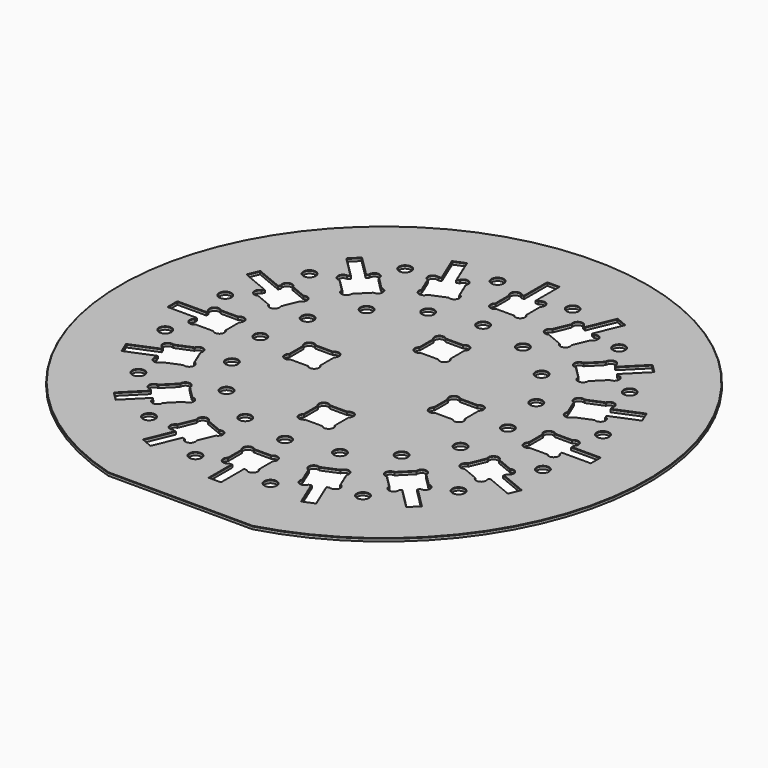
from build123d import *

# Parameters (mm, degrees)
F0_R     = 2
F1_DEPTH = 1
F2_SIZE  = 0.15


with BuildPart() as f1:
    # F0 (on Top) → F1 (new body)
    with BuildSketch(Plane.XY):
        with BuildLine():
            Line((-25.2192982456, -87.7282941676), (24.7805456483, -87.8532364739))
            ThreePointArc((24.7805456483, -87.8532364739), (0.2280977978, 91.2809650089), (-25.2192982456, -87.7282941676))
        make_face()
        with Locations((-36.9934754125, -55.3646484834)):
            Circle(F0_R, mode=Mode.SUBTRACT)
        with BuildLine():
            ThreePointArc((-42.452001351, -35.0273801486), (-40.875761089, -33.2511398866), (-39.2995208271, -35.0273801486))
            Line((-39.2995208271, -35.0273801486), (-35.0273801486, -39.2995208271))
            ThreePointArc((-35.0273801486, -39.2995208271), (-33.2511398866, -40.875761089), (-35.0273801486, -42.452001351))
            Line((-35.0273801486, -42.452001351), (-39.2995208271, -46.7241420295))
            ThreePointArc((-39.2995208271, -46.7241420295), (-40.875761089, -48.5003822915), (-42.452001351, -46.7241420295))
            Line((-42.452001351, -46.7241420295), (-43.1738581279, -46.0022852526))
            Line((-43.1738581279, -46.0022852526), (-50.2449259398, -53.0733530645))
            Line((-50.2449259398, -53.0733530645), (-53.0733530645, -50.2449259398))
            Line((-53.0733530645, -50.2449259398), (-46.0022852526, -43.1738581279))
            Line((-46.0022852526, -43.1738581279), (-46.7241420295, -42.452001351))
            ThreePointArc((-46.7241420295, -42.452001351), (-48.5003822915, -40.875761089), (-46.7241420295, -39.2995208271))
            Line((-46.7241420295, -39.2995208271), (-42.452001351, -35.0273801486))
        make_face(mode=Mode.SUBTRACT)
        with Locations((-12.9903810568, -65.3070557044)):
            Circle(F0_R, mode=Mode.SUBTRACT)
        with BuildLine():
            ThreePointArc((-25.8161371003, -48.6067571845), (-25.0396187041, -46.362524128), (-22.9036248676, -47.4003551172))
            Line((-22.9036248676, -47.4003551172), (-17.3218040764, -49.7124209916))
            ThreePointArc((-17.3218040764, -49.7124209916), (-15.0775710198, -50.4889393878), (-16.115402009, -52.6249332244))
            Line((-16.115402009, -52.6249332244), (-18.4274678834, -58.2067540156))
            ThreePointArc((-18.4274678834, -58.2067540156), (-19.2039862797, -60.4509870722), (-21.3399801162, -59.413156083))
            Line((-21.3399801162, -59.413156083), (-22.2831314468, -59.0224900105))
            Line((-22.2831314468, -59.0224900105), (-26.1099657704, -68.2612853356))
            Line((-26.1099657704, -68.2612853356), (-29.8054839005, -66.7305516061))
            Line((-29.8054839005, -66.7305516061), (-25.9786495768, -57.491756281))
            Line((-25.9786495768, -57.491756281), (-26.9218009074, -57.1010902085))
            ThreePointArc((-26.9218009074, -57.1010902085), (-29.166033964, -56.3245718123), (-28.1282029748, -54.1885779758))
            Line((-28.1282029748, -54.1885779758), (-25.8161371003, -48.6067571845))
        make_face(mode=Mode.SUBTRACT)
        with Locations((-55.3646484834, -36.9934754125)):
            Circle(F0_R, mode=Mode.SUBTRACT)
        with BuildLine():
            ThreePointArc((-52.6249332244, -16.115402009), (-50.4889393878, -15.0775710198), (-49.7124209916, -17.3218040764))
            Line((-49.7124209916, -17.3218040764), (-47.4003551172, -22.9036248676))
            ThreePointArc((-47.4003551172, -22.9036248676), (-46.362524128, -25.0396187041), (-48.6067571845, -25.8161371003))
            Line((-48.6067571845, -25.8161371003), (-54.1885779758, -28.1282029748))
            ThreePointArc((-54.1885779758, -28.1282029748), (-56.3245718123, -29.166033964), (-57.1010902085, -26.9218009074))
            Line((-57.1010902085, -26.9218009074), (-57.491756281, -25.9786495768))
            Line((-57.491756281, -25.9786495768), (-66.7305516061, -29.8054839005))
            Line((-66.7305516061, -29.8054839005), (-68.2612853356, -26.1099657704))
            Line((-68.2612853356, -26.1099657704), (-59.0224900105, -22.2831314468))
            Line((-59.0224900105, -22.2831314468), (-59.413156083, -21.3399801162))
            ThreePointArc((-59.413156083, -21.3399801162), (-60.4509870722, -19.2039862797), (-58.2067540156, -18.4274678834))
            Line((-58.2067540156, -18.4274678834), (-52.6249332244, -16.115402009))
        make_face(mode=Mode.SUBTRACT)
        with Locations((-65.3070557044, -12.9903810568)):
            Circle(F0_R, mode=Mode.SUBTRACT)
        with BuildLine():
            ThreePointArc((-54.7861960605, 5.25), (-52.4156343482, 5.3914213562), (-52.5570557044, 3.0208596439))
            Line((-52.5570557044, 3.0208596439), (-52.5570557044, -3.0208596439))
            ThreePointArc((-52.5570557044, -3.0208596439), (-52.4156343482, -5.3914213562), (-54.7861960605, -5.25))
            Line((-54.7861960605, -5.25), (-60.8279153484, -5.25))
            ThreePointArc((-60.8279153484, -5.25), (-63.1984770607, -5.3914213562), (-63.0570557044, -3.0208596439))
            Line((-63.0570557044, -3.0208596439), (-63.0570557044, -2))
            Line((-63.0570557044, -2), (-73.0570557044, -2))
            Line((-73.0570557044, -2), (-73.0570557044, 2))
            Line((-73.0570557044, 2), (-63.0570557044, 2))
            Line((-63.0570557044, 2), (-63.0570557044, 3.0208596439))
            ThreePointArc((-63.0570557044, 3.0208596439), (-63.1984770607, 5.3914213562), (-60.8279153484, 5.25))
            Line((-60.8279153484, 5.25), (-54.7861960605, 5.25))
        make_face(mode=Mode.SUBTRACT)
        with Locations((-30.2691593712, -30.2691593712)):
            Circle(F0_R, mode=Mode.SUBTRACT)
        with Locations((-16.3815510064, -39.5485626124)):
            Circle(F0_R, mode=Mode.SUBTRACT)
        with Locations((-39.5485626124, -16.3815510064)):
            Circle(F0_R, mode=Mode.SUBTRACT)
        with Locations((-42.8070557044, 0)):
            Circle(F0_R, mode=Mode.SUBTRACT)
        with BuildLine():
            ThreePointArc((-19.75, -3.0208596439), (-19.6085786438, -5.3914213562), (-21.9791403561, -5.25))
            Line((-21.9791403561, -5.25), (-28.0208596439, -5.25))
            ThreePointArc((-28.0208596439, -5.25), (-30.3914213562, -5.3914213562), (-30.25, -3.0208596439))
            Line((-30.25, -3.0208596439), (-30.25, -2))
            Line((-30.25, -2), (-30.25, 2))
            Line((-30.25, 2), (-30.25, 3.0208596439))
            ThreePointArc((-30.25, 3.0208596439), (-30.3914213562, 5.3914213562), (-28.0208596439, 5.25))
            Line((-28.0208596439, 5.25), (-21.9791403561, 5.25))
            ThreePointArc((-21.9791403561, 5.25), (-19.6085786438, 5.3914213562), (-19.75, 3.0208596439))
            Line((-19.75, 3.0208596439), (-19.75, -3.0208596439))
        make_face(mode=Mode.SUBTRACT)
        with BuildLine():
            ThreePointArc((-5.25, -54.7861960605), (-5.3914213562, -52.4156343482), (-3.0208596439, -52.5570557044))
            Line((-3.0208596439, -52.5570557044), (3.0208596439, -52.5570557044))
            ThreePointArc((3.0208596439, -52.5570557044), (5.3914213562, -52.4156343482), (5.25, -54.7861960605))
            Line((5.25, -54.7861960605), (5.25, -60.8279153484))
            ThreePointArc((5.25, -60.8279153484), (5.3914213562, -63.1984770607), (3.0208596439, -63.0570557044))
            Line((3.0208596439, -63.0570557044), (2, -63.0570557044))
            Line((2, -63.0570557044), (2, -73.0570557044))
            Line((2, -73.0570557044), (-2, -73.0570557044))
            Line((-2, -73.0570557044), (-2, -63.0570557044))
            Line((-2, -63.0570557044), (-3.0208596439, -63.0570557044))
            ThreePointArc((-3.0208596439, -63.0570557044), (-5.3914213562, -63.1984770607), (-5.25, -60.8279153484))
            Line((-5.25, -60.8279153484), (-5.25, -54.7861960605))
        make_face(mode=Mode.SUBTRACT)
        with Locations((12.9903810568, -65.3070557044)):
            Circle(F0_R, mode=Mode.SUBTRACT)
        with BuildLine():
            ThreePointArc((16.115402009, -52.6249332244), (15.0775710198, -50.4889393878), (17.3218040764, -49.7124209916))
            Line((17.3218040764, -49.7124209916), (22.9036248676, -47.4003551172))
            ThreePointArc((22.9036248676, -47.4003551172), (25.0396187041, -46.362524128), (25.8161371003, -48.6067571845))
            Line((25.8161371003, -48.6067571845), (28.1282029748, -54.1885779758))
            ThreePointArc((28.1282029748, -54.1885779758), (29.166033964, -56.3245718123), (26.9218009074, -57.1010902085))
            Line((26.9218009074, -57.1010902085), (25.9786495768, -57.491756281))
            Line((25.9786495768, -57.491756281), (29.8054839005, -66.7305516061))
            Line((29.8054839005, -66.7305516061), (26.1099657704, -68.2612853356))
            Line((26.1099657704, -68.2612853356), (22.2831314468, -59.0224900105))
            Line((22.2831314468, -59.0224900105), (21.3399801162, -59.413156083))
            ThreePointArc((21.3399801162, -59.413156083), (19.2039862797, -60.4509870722), (18.4274678834, -58.2067540156))
            Line((18.4274678834, -58.2067540156), (16.115402009, -52.6249332244))
        make_face(mode=Mode.SUBTRACT)
        with Locations((36.9934754125, -55.3646484834)):
            Circle(F0_R, mode=Mode.SUBTRACT)
        with BuildLine():
            ThreePointArc((35.0273801486, -42.452001351), (33.2511398866, -40.875761089), (35.0273801486, -39.2995208271))
            Line((35.0273801486, -39.2995208271), (39.2995208271, -35.0273801486))
            ThreePointArc((39.2995208271, -35.0273801486), (40.875761089, -33.2511398866), (42.452001351, -35.0273801486))
            Line((42.452001351, -35.0273801486), (46.7241420295, -39.2995208271))
            ThreePointArc((46.7241420295, -39.2995208271), (48.5003822915, -40.875761089), (46.7241420295, -42.452001351))
            Line((46.7241420295, -42.452001351), (46.0022852526, -43.1738581279))
            Line((46.0022852526, -43.1738581279), (53.0733530645, -50.2449259398))
            Line((53.0733530645, -50.2449259398), (50.2449259398, -53.0733530645))
            Line((50.2449259398, -53.0733530645), (43.1738581279, -46.0022852526))
            Line((43.1738581279, -46.0022852526), (42.452001351, -46.7241420295))
            ThreePointArc((42.452001351, -46.7241420295), (40.875761089, -48.5003822915), (39.2995208271, -46.7241420295))
            Line((39.2995208271, -46.7241420295), (35.0273801486, -42.452001351))
        make_face(mode=Mode.SUBTRACT)
        with Locations((0, -42.8070557044)):
            Circle(F0_R, mode=Mode.SUBTRACT)
        with Locations((16.3815510064, -39.5485626124)):
            Circle(F0_R, mode=Mode.SUBTRACT)
        with BuildLine():
            ThreePointArc((3.0208596439, -19.75), (5.3914213562, -19.6085786438), (5.25, -21.9791403561))
            Line((5.25, -21.9791403561), (5.25, -28.0208596439))
            ThreePointArc((5.25, -28.0208596439), (5.3914213562, -30.3914213562), (3.0208596439, -30.25))
            Line((3.0208596439, -30.25), (2, -30.25))
            Line((2, -30.25), (-2, -30.25))
            Line((-2, -30.25), (-3.0208596439, -30.25))
            ThreePointArc((-3.0208596439, -30.25), (-5.3914213562, -30.3914213562), (-5.25, -28.0208596439))
            Line((-5.25, -28.0208596439), (-5.25, -21.9791403561))
            ThreePointArc((-5.25, -21.9791403561), (-5.3914213562, -19.6085786438), (-3.0208596439, -19.75))
            Line((-3.0208596439, -19.75), (3.0208596439, -19.75))
        make_face(mode=Mode.SUBTRACT)
        with Locations((30.2691593712, -30.2691593712)):
            Circle(F0_R, mode=Mode.SUBTRACT)
        with Locations((39.5485626124, -16.3815510064)):
            Circle(F0_R, mode=Mode.SUBTRACT)
        with BuildLine():
            ThreePointArc((19.75, 3.0208596439), (19.6085786438, 5.3914213562), (21.9791403561, 5.25))
            Line((21.9791403561, 5.25), (28.0208596439, 5.25))
            ThreePointArc((28.0208596439, 5.25), (30.3914213562, 5.3914213562), (30.25, 3.0208596439))
            Line((30.25, 3.0208596439), (30.25, 2))
            Line((30.25, 2), (30.25, -2))
            Line((30.25, -2), (30.25, -3.0208596439))
            ThreePointArc((30.25, -3.0208596439), (30.3914213562, -5.3914213562), (28.0208596439, -5.25))
            Line((28.0208596439, -5.25), (21.9791403561, -5.25))
            ThreePointArc((21.9791403561, -5.25), (19.6085786438, -5.3914213562), (19.75, -3.0208596439))
            Line((19.75, -3.0208596439), (19.75, 3.0208596439))
        make_face(mode=Mode.SUBTRACT)
        with Locations((42.8070557044, 0)):
            Circle(F0_R, mode=Mode.SUBTRACT)
        with Locations((55.3646484834, -36.9934754125)):
            Circle(F0_R, mode=Mode.SUBTRACT)
        with BuildLine():
            ThreePointArc((48.6067571845, -25.8161371003), (46.362524128, -25.0396187041), (47.4003551172, -22.9036248676))
            Line((47.4003551172, -22.9036248676), (49.7124209916, -17.3218040764))
            ThreePointArc((49.7124209916, -17.3218040764), (50.4889393878, -15.0775710198), (52.6249332244, -16.115402009))
            Line((52.6249332244, -16.115402009), (58.2067540156, -18.4274678834))
            ThreePointArc((58.2067540156, -18.4274678834), (60.4509870722, -19.2039862797), (59.413156083, -21.3399801162))
            Line((59.413156083, -21.3399801162), (59.0224900105, -22.2831314468))
            Line((59.0224900105, -22.2831314468), (68.2612853356, -26.1099657704))
            Line((68.2612853356, -26.1099657704), (66.7305516061, -29.8054839005))
            Line((66.7305516061, -29.8054839005), (57.491756281, -25.9786495768))
            Line((57.491756281, -25.9786495768), (57.1010902085, -26.9218009074))
            ThreePointArc((57.1010902085, -26.9218009074), (56.3245718123, -29.166033964), (54.1885779758, -28.1282029748))
            Line((54.1885779758, -28.1282029748), (48.6067571845, -25.8161371003))
        make_face(mode=Mode.SUBTRACT)
        with Locations((65.3070557044, -12.9903810568)):
            Circle(F0_R, mode=Mode.SUBTRACT)
        with BuildLine():
            ThreePointArc((54.7861960605, -5.25), (52.4156343482, -5.3914213562), (52.5570557044, -3.0208596439))
            Line((52.5570557044, -3.0208596439), (52.5570557044, 3.0208596439))
            ThreePointArc((52.5570557044, 3.0208596439), (52.4156343482, 5.3914213562), (54.7861960605, 5.25))
            Line((54.7861960605, 5.25), (60.8279153484, 5.25))
            ThreePointArc((60.8279153484, 5.25), (63.1984770607, 5.3914213562), (63.0570557044, 3.0208596439))
            Line((63.0570557044, 3.0208596439), (63.0570557044, 2))
            Line((63.0570557044, 2), (73.0570557044, 2))
            Line((73.0570557044, 2), (73.0570557044, -2))
            Line((73.0570557044, -2), (63.0570557044, -2))
            Line((63.0570557044, -2), (63.0570557044, -3.0208596439))
            ThreePointArc((63.0570557044, -3.0208596439), (63.1984770607, -5.3914213562), (60.8279153484, -5.25))
            Line((60.8279153484, -5.25), (54.7861960605, -5.25))
        make_face(mode=Mode.SUBTRACT)
        with Locations((-65.3070557044, 12.9903810568)):
            Circle(F0_R, mode=Mode.SUBTRACT)
        with BuildLine():
            ThreePointArc((-48.6067571845, 25.8161371003), (-46.362524128, 25.0396187041), (-47.4003551172, 22.9036248676))
            Line((-47.4003551172, 22.9036248676), (-49.7124209916, 17.3218040764))
            ThreePointArc((-49.7124209916, 17.3218040764), (-50.4889393878, 15.0775710198), (-52.6249332244, 16.115402009))
            Line((-52.6249332244, 16.115402009), (-58.2067540156, 18.4274678834))
            ThreePointArc((-58.2067540156, 18.4274678834), (-60.4509870722, 19.2039862797), (-59.413156083, 21.3399801162))
            Line((-59.413156083, 21.3399801162), (-59.0224900105, 22.2831314468))
            Line((-59.0224900105, 22.2831314468), (-68.2612853356, 26.1099657704))
            Line((-68.2612853356, 26.1099657704), (-66.7305516061, 29.8054839005))
            Line((-66.7305516061, 29.8054839005), (-57.491756281, 25.9786495768))
            Line((-57.491756281, 25.9786495768), (-57.1010902085, 26.9218009074))
            ThreePointArc((-57.1010902085, 26.9218009074), (-56.3245718123, 29.166033964), (-54.1885779758, 28.1282029748))
            Line((-54.1885779758, 28.1282029748), (-48.6067571845, 25.8161371003))
        make_face(mode=Mode.SUBTRACT)
        with Locations((-55.3646484834, 36.9934754125)):
            Circle(F0_R, mode=Mode.SUBTRACT)
        with Locations((-39.5485626124, 16.3815510064)):
            Circle(F0_R, mode=Mode.SUBTRACT)
        with Locations((-30.2691593712, 30.2691593712)):
            Circle(F0_R, mode=Mode.SUBTRACT)
        with BuildLine():
            ThreePointArc((-39.2995208271, 35.0273801486), (-40.875761089, 33.2511398866), (-42.452001351, 35.0273801486))
            Line((-42.452001351, 35.0273801486), (-46.7241420295, 39.2995208271))
            ThreePointArc((-46.7241420295, 39.2995208271), (-48.5003822915, 40.875761089), (-46.7241420295, 42.452001351))
            Line((-46.7241420295, 42.452001351), (-46.0022852526, 43.1738581279))
            Line((-46.0022852526, 43.1738581279), (-53.0733530645, 50.2449259398))
            Line((-53.0733530645, 50.2449259398), (-50.2449259398, 53.0733530645))
            Line((-50.2449259398, 53.0733530645), (-43.1738581279, 46.0022852526))
            Line((-43.1738581279, 46.0022852526), (-42.452001351, 46.7241420295))
            ThreePointArc((-42.452001351, 46.7241420295), (-40.875761089, 48.5003822915), (-39.2995208271, 46.7241420295))
            Line((-39.2995208271, 46.7241420295), (-35.0273801486, 42.452001351))
            ThreePointArc((-35.0273801486, 42.452001351), (-33.2511398866, 40.875761089), (-35.0273801486, 39.2995208271))
            Line((-35.0273801486, 39.2995208271), (-39.2995208271, 35.0273801486))
        make_face(mode=Mode.SUBTRACT)
        with Locations((-16.3815510064, 39.5485626124)):
            Circle(F0_R, mode=Mode.SUBTRACT)
        with Locations((-36.9934754125, 55.3646484834)):
            Circle(F0_R, mode=Mode.SUBTRACT)
        with BuildLine():
            ThreePointArc((-22.9036248676, 47.4003551172), (-25.0396187041, 46.362524128), (-25.8161371003, 48.6067571845))
            Line((-25.8161371003, 48.6067571845), (-28.1282029748, 54.1885779758))
            ThreePointArc((-28.1282029748, 54.1885779758), (-29.166033964, 56.3245718123), (-26.9218009074, 57.1010902085))
            Line((-26.9218009074, 57.1010902085), (-25.9786495768, 57.491756281))
            Line((-25.9786495768, 57.491756281), (-29.8054839005, 66.7305516061))
            Line((-29.8054839005, 66.7305516061), (-26.1099657704, 68.2612853356))
            Line((-26.1099657704, 68.2612853356), (-22.2831314468, 59.0224900105))
            Line((-22.2831314468, 59.0224900105), (-21.3399801162, 59.413156083))
            ThreePointArc((-21.3399801162, 59.413156083), (-19.2039862797, 60.4509870722), (-18.4274678834, 58.2067540156))
            Line((-18.4274678834, 58.2067540156), (-16.115402009, 52.6249332244))
            ThreePointArc((-16.115402009, 52.6249332244), (-15.0775710198, 50.4889393878), (-17.3218040764, 49.7124209916))
            Line((-17.3218040764, 49.7124209916), (-22.9036248676, 47.4003551172))
        make_face(mode=Mode.SUBTRACT)
        with Locations((-12.9903810568, 65.3070557044)):
            Circle(F0_R, mode=Mode.SUBTRACT)
        with Locations((39.5485626124, 16.3815510064)):
            Circle(F0_R, mode=Mode.SUBTRACT)
        with BuildLine():
            ThreePointArc((3.0208596439, 30.25), (5.3914213562, 30.3914213562), (5.25, 28.0208596439))
            Line((5.25, 28.0208596439), (5.25, 21.9791403561))
            ThreePointArc((5.25, 21.9791403561), (5.3914213562, 19.6085786438), (3.0208596439, 19.75))
            Line((3.0208596439, 19.75), (-3.0208596439, 19.75))
            ThreePointArc((-3.0208596439, 19.75), (-5.3914213562, 19.6085786438), (-5.25, 21.9791403561))
            Line((-5.25, 21.9791403561), (-5.25, 28.0208596439))
            ThreePointArc((-5.25, 28.0208596439), (-5.3914213562, 30.3914213562), (-3.0208596439, 30.25))
            Line((-3.0208596439, 30.25), (-2, 30.25))
            Line((-2, 30.25), (2, 30.25))
            Line((2, 30.25), (3.0208596439, 30.25))
        make_face(mode=Mode.SUBTRACT)
        with Locations((0, 42.8070557044)):
            Circle(F0_R, mode=Mode.SUBTRACT)
        with Locations((16.3815510064, 39.5485626124)):
            Circle(F0_R, mode=Mode.SUBTRACT)
        with Locations((30.2691593712, 30.2691593712)):
            Circle(F0_R, mode=Mode.SUBTRACT)
        with BuildLine():
            ThreePointArc((42.452001351, 35.0273801486), (40.875761089, 33.2511398866), (39.2995208271, 35.0273801486))
            Line((39.2995208271, 35.0273801486), (35.0273801486, 39.2995208271))
            ThreePointArc((35.0273801486, 39.2995208271), (33.2511398866, 40.875761089), (35.0273801486, 42.452001351))
            Line((35.0273801486, 42.452001351), (39.2995208271, 46.7241420295))
            ThreePointArc((39.2995208271, 46.7241420295), (40.875761089, 48.5003822915), (42.452001351, 46.7241420295))
            Line((42.452001351, 46.7241420295), (43.1738581279, 46.0022852526))
            Line((43.1738581279, 46.0022852526), (50.2449259398, 53.0733530645))
            Line((50.2449259398, 53.0733530645), (53.0733530645, 50.2449259398))
            Line((53.0733530645, 50.2449259398), (46.0022852526, 43.1738581279))
            Line((46.0022852526, 43.1738581279), (46.7241420295, 42.452001351))
            ThreePointArc((46.7241420295, 42.452001351), (48.5003822915, 40.875761089), (46.7241420295, 39.2995208271))
            Line((46.7241420295, 39.2995208271), (42.452001351, 35.0273801486))
        make_face(mode=Mode.SUBTRACT)
        with Locations((65.3070557044, 12.9903810568)):
            Circle(F0_R, mode=Mode.SUBTRACT)
        with BuildLine():
            ThreePointArc((52.6249332244, 16.115402009), (50.4889393878, 15.0775710198), (49.7124209916, 17.3218040764))
            Line((49.7124209916, 17.3218040764), (47.4003551172, 22.9036248676))
            ThreePointArc((47.4003551172, 22.9036248676), (46.362524128, 25.0396187041), (48.6067571845, 25.8161371003))
            Line((48.6067571845, 25.8161371003), (54.1885779758, 28.1282029748))
            ThreePointArc((54.1885779758, 28.1282029748), (56.3245718123, 29.166033964), (57.1010902085, 26.9218009074))
            Line((57.1010902085, 26.9218009074), (57.491756281, 25.9786495768))
            Line((57.491756281, 25.9786495768), (66.7305516061, 29.8054839005))
            Line((66.7305516061, 29.8054839005), (68.2612853356, 26.1099657704))
            Line((68.2612853356, 26.1099657704), (59.0224900105, 22.2831314468))
            Line((59.0224900105, 22.2831314468), (59.413156083, 21.3399801162))
            ThreePointArc((59.413156083, 21.3399801162), (60.4509870722, 19.2039862797), (58.2067540156, 18.4274678834))
            Line((58.2067540156, 18.4274678834), (52.6249332244, 16.115402009))
        make_face(mode=Mode.SUBTRACT)
        with Locations((55.3646484834, 36.9934754125)):
            Circle(F0_R, mode=Mode.SUBTRACT)
        with BuildLine():
            ThreePointArc((25.8161371003, 48.6067571845), (25.0396187041, 46.362524128), (22.9036248676, 47.4003551172))
            Line((22.9036248676, 47.4003551172), (17.3218040764, 49.7124209916))
            ThreePointArc((17.3218040764, 49.7124209916), (15.0775710198, 50.4889393878), (16.115402009, 52.6249332244))
            Line((16.115402009, 52.6249332244), (18.4274678834, 58.2067540156))
            ThreePointArc((18.4274678834, 58.2067540156), (19.2039862797, 60.4509870722), (21.3399801162, 59.413156083))
            Line((21.3399801162, 59.413156083), (22.2831314468, 59.0224900105))
            Line((22.2831314468, 59.0224900105), (26.1099657704, 68.2612853356))
            Line((26.1099657704, 68.2612853356), (29.8054839005, 66.7305516061))
            Line((29.8054839005, 66.7305516061), (25.9786495768, 57.491756281))
            Line((25.9786495768, 57.491756281), (26.9218009074, 57.1010902085))
            ThreePointArc((26.9218009074, 57.1010902085), (29.166033964, 56.3245718123), (28.1282029748, 54.1885779758))
            Line((28.1282029748, 54.1885779758), (25.8161371003, 48.6067571845))
        make_face(mode=Mode.SUBTRACT)
        with BuildLine():
            ThreePointArc((3.0208596439, 63.0570557044), (5.3914213562, 63.1984770607), (5.25, 60.8279153484))
            Line((5.25, 60.8279153484), (5.25, 54.7861960605))
            ThreePointArc((5.25, 54.7861960605), (5.3914213562, 52.4156343482), (3.0208596439, 52.5570557044))
            Line((3.0208596439, 52.5570557044), (-3.0208596439, 52.5570557044))
            ThreePointArc((-3.0208596439, 52.5570557044), (-5.3914213562, 52.4156343482), (-5.25, 54.7861960605))
            Line((-5.25, 54.7861960605), (-5.25, 60.8279153484))
            ThreePointArc((-5.25, 60.8279153484), (-5.3914213562, 63.1984770607), (-3.0208596439, 63.0570557044))
            Line((-3.0208596439, 63.0570557044), (-2, 63.0570557044))
            Line((-2, 63.0570557044), (-2, 73.0570557044))
            Line((-2, 73.0570557044), (2, 73.0570557044))
            Line((2, 73.0570557044), (2, 63.0570557044))
            Line((2, 63.0570557044), (3.0208596439, 63.0570557044))
        make_face(mode=Mode.SUBTRACT)
        with Locations((12.9903810568, 65.3070557044)):
            Circle(F0_R, mode=Mode.SUBTRACT)
        with Locations((36.9934754125, 55.3646484834)):
            Circle(F0_R, mode=Mode.SUBTRACT)
    extrude(amount=F1_DEPTH)

    # F2
    f2_edges = [f1.edges().sort_by_distance(p)[0] for p in [
        (-0.219376, -87.790765, 1),
        (0.228098, 91.280965, 1),
        (-38.993475, -55.364648, 1),
        (-40.875761, -48.500382, 1),
        (-42.81293, -46.363214, 1),
        (-46.709392, -49.537819, 1),
        (-51.65914, -51.65914, 1),
        (-49.537819, -46.709392, 1),
        (-46.363214, -42.81293, 1),
        (-48.500382, -40.875761, 1),
        (-44.588072, -37.16345, 1),
        (-40.875761, -33.25114, 1),
        (-37.16345, -37.16345, 1),
        (-33.25114, -40.875761, 1),
        (-37.16345, -44.588072, 1),
        (-14.990381, -65.307056, 1),
        (-25.039619, -46.362524, 1),
        (-20.112714, -48.556388, 1),
        (-15.077571, -50.488939, 1),
        (-17.271435, -55.415844, 1),
        (-19.203986, -60.450987, 1),
        (-21.811556, -59.217823, 1),
        (-24.196549, -63.641888, 1),
        (-27.957725, -67.495918, 1),
        (-27.892067, -62.111154, 1),
        (-26.450225, -57.296423, 1),
        (-29.166034, -56.324572, 1),
        (-26.97217, -51.397668, 1),
        (-57.364648, -36.993475, 1),
        (-55.415844, -17.271435, 1),
        (-50.488939, -15.077571, 1),
        (-48.556388, -20.112714, 1),
        (-46.362524, -25.039619, 1),
        (-51.397668, -26.97217, 1),
        (-56.324572, -29.166034, 1),
        (-57.296423, -26.450225, 1),
        (-62.111154, -27.892067, 1),
        (-67.495918, -27.957725, 1),
        (-63.641888, -24.196549, 1),
        (-59.217823, -21.811556, 1),
        (-60.450987, -19.203986, 1),
        (-67.307056, -12.990381, 1),
        (-52.415634, 5.391421, 1),
        (-52.557056, 0, 1),
        (-52.415634, -5.391421, 1),
        (-57.807056, -5.25, 1),
        (-63.198477, -5.391421, 1),
        (-63.057056, -2.51043, 1),
        (-68.057056, -2, 1),
        (-73.057056, 0, 1),
        (-68.057056, 2, 1),
        (-63.057056, 2.51043, 1),
        (-63.198477, 5.391421, 1),
        (-57.807056, 5.25, 1),
        (-32.269159, -30.269159, 1),
        (-18.381551, -39.548563, 1),
        (-41.548563, -16.381551, 1),
        (-44.807056, 0, 1),
        (-19.608579, 5.391421, 1),
        (-19.75, 0, 1),
        (-19.608579, -5.391421, 1),
        (-25, -5.25, 1),
        (-30.391421, -5.391421, 1),
        (-30.25, 0, 1),
        (-30.391421, 5.391421, 1),
        (-25, 5.25, 1),
        (-5.391421, -52.415634, 1),
        (0, -52.557056, 1),
        (5.391421, -52.415634, 1),
        (5.25, -57.807056, 1),
        (5.391421, -63.198477, 1),
        (2.51043, -63.057056, 1),
        (2, -68.057056, 1),
        (0, -73.057056, 1),
        (-2, -68.057056, 1),
        (-2.51043, -63.057056, 1),
        (-5.391421, -63.198477, 1),
        (-5.25, -57.807056, 1),
        (10.990381, -65.307056, 1),
        (19.203986, -60.450987, 1),
        (17.271435, -55.415844, 1),
        (15.077571, -50.488939, 1),
        (20.112714, -48.556388, 1),
        (25.039619, -46.362524, 1),
        (26.97217, -51.397668, 1),
        (29.166034, -56.324572, 1),
        (26.450225, -57.296423, 1),
        (27.892067, -62.111154, 1),
        (27.957725, -67.495918, 1),
        (24.196549, -63.641888, 1),
        (21.811556, -59.217823, 1),
        (34.993475, -55.364648, 1),
        (48.500382, -40.875761, 1),
        (46.363214, -42.81293, 1),
        (49.537819, -46.709392, 1),
        (51.65914, -51.65914, 1),
        (46.709392, -49.537819, 1),
        (42.81293, -46.363214, 1),
        (40.875761, -48.500382, 1),
        (37.16345, -44.588072, 1),
        (33.25114, -40.875761, 1),
        (37.16345, -37.16345, 1),
        (40.875761, -33.25114, 1),
        (44.588072, -37.16345, 1),
        (-2, -42.807056, 1),
        (14.381551, -39.548563, 1),
        (5.391421, -19.608579, 1),
        (5.25, -25, 1),
        (5.391421, -30.391421, 1),
        (0, -30.25, 1),
        (-5.391421, -30.391421, 1),
        (-5.25, -25, 1),
        (-5.391421, -19.608579, 1),
        (0, -19.75, 1),
        (28.269159, -30.269159, 1),
        (37.548563, -16.381551, 1),
        (19.608579, 5.391421, 1),
        (25, 5.25, 1),
        (30.391421, 5.391421, 1),
        (30.25, 0, 1),
        (30.391421, -5.391421, 1),
        (25, -5.25, 1),
        (19.608579, -5.391421, 1),
        (19.75, 0, 1),
        (40.807056, 0, 1),
        (53.364648, -36.993475, 1),
        (46.362524, -25.039619, 1),
        (48.556388, -20.112714, 1),
        (50.488939, -15.077571, 1),
        (55.415844, -17.271435, 1),
        (60.450987, -19.203986, 1),
        (59.217823, -21.811556, 1),
        (63.641888, -24.196549, 1),
        (67.495918, -27.957725, 1),
        (62.111154, -27.892067, 1),
        (57.296423, -26.450225, 1),
        (56.324572, -29.166034, 1),
        (51.397668, -26.97217, 1),
        (63.307056, -12.990381, 1),
        (52.415634, -5.391421, 1),
        (52.557056, 0, 1),
        (52.415634, 5.391421, 1),
        (57.807056, 5.25, 1),
        (63.198477, 5.391421, 1),
        (63.057056, 2.51043, 1),
        (68.057056, 2, 1),
        (73.057056, 0, 1),
        (68.057056, -2, 1),
        (63.057056, -2.51043, 1),
        (63.198477, -5.391421, 1),
        (57.807056, -5.25, 1),
        (-67.307056, 12.990381, 1),
        (-46.362524, 25.039619, 1),
        (-48.556388, 20.112714, 1),
        (-50.488939, 15.077571, 1),
        (-55.415844, 17.271435, 1),
        (-60.450987, 19.203986, 1),
        (-59.217823, 21.811556, 1),
        (-63.641888, 24.196549, 1),
        (-67.495918, 27.957725, 1),
        (-62.111154, 27.892067, 1),
        (-57.296423, 26.450225, 1),
        (-56.324572, 29.166034, 1),
        (-51.397668, 26.97217, 1),
        (-57.364648, 36.993475, 1),
        (-41.548563, 16.381551, 1),
        (-32.269159, 30.269159, 1),
        (-37.16345, 37.16345, 1),
        (-40.875761, 33.25114, 1),
        (-44.588072, 37.16345, 1),
        (-48.500382, 40.875761, 1),
        (-46.363214, 42.81293, 1),
        (-49.537819, 46.709392, 1),
        (-51.65914, 51.65914, 1),
        (-46.709392, 49.537819, 1),
        (-42.81293, 46.363214, 1),
        (-40.875761, 48.500382, 1),
        (-37.16345, 44.588072, 1),
        (-33.25114, 40.875761, 1),
        (-18.381551, 39.548563, 1),
        (-38.993475, 55.364648, 1),
        (-25.039619, 46.362524, 1),
        (-26.97217, 51.397668, 1),
        (-29.166034, 56.324572, 1),
        (-26.450225, 57.296423, 1),
        (-27.892067, 62.111154, 1),
        (-27.957725, 67.495918, 1),
        (-24.196549, 63.641888, 1),
        (-21.811556, 59.217823, 1),
        (-19.203986, 60.450987, 1),
        (-17.271435, 55.415844, 1),
        (-15.077571, 50.488939, 1),
        (-20.112714, 48.556388, 1),
        (-14.990381, 65.307056, 1),
        (37.548563, 16.381551, 1),
        (5.391421, 30.391421, 1),
        (5.25, 25, 1),
        (5.391421, 19.608579, 1),
        (0, 19.75, 1),
        (-5.391421, 19.608579, 1),
        (-5.25, 25, 1),
        (-5.391421, 30.391421, 1),
        (0, 30.25, 1),
        (-2, 42.807056, 1),
        (14.381551, 39.548563, 1),
        (28.269159, 30.269159, 1),
        (40.875761, 48.500382, 1),
        (42.81293, 46.363214, 1),
        (46.709392, 49.537819, 1),
        (51.65914, 51.65914, 1),
        (49.537819, 46.709392, 1),
        (46.363214, 42.81293, 1),
        (48.500382, 40.875761, 1),
        (44.588072, 37.16345, 1),
        (40.875761, 33.25114, 1),
        (37.16345, 37.16345, 1),
        (33.25114, 40.875761, 1),
        (37.16345, 44.588072, 1),
        (63.307056, 12.990381, 1),
        (55.415844, 17.271435, 1),
        (50.488939, 15.077571, 1),
        (48.556388, 20.112714, 1),
        (46.362524, 25.039619, 1),
        (51.397668, 26.97217, 1),
        (56.324572, 29.166034, 1),
        (57.296423, 26.450225, 1),
        (62.111154, 27.892067, 1),
        (67.495918, 27.957725, 1),
        (63.641888, 24.196549, 1),
        (59.217823, 21.811556, 1),
        (60.450987, 19.203986, 1),
        (53.364648, 36.993475, 1),
        (26.97217, 51.397668, 1),
        (25.039619, 46.362524, 1),
        (20.112714, 48.556388, 1),
        (15.077571, 50.488939, 1),
        (17.271435, 55.415844, 1),
        (19.203986, 60.450987, 1),
        (21.811556, 59.217823, 1),
        (24.196549, 63.641888, 1),
        (27.957725, 67.495918, 1),
        (27.892067, 62.111154, 1),
        (26.450225, 57.296423, 1),
        (29.166034, 56.324572, 1),
        (-5.391421, 63.198477, 1),
        (-2.51043, 63.057056, 1),
        (-2, 68.057056, 1),
        (0, 73.057056, 1),
        (2, 68.057056, 1),
        (2.51043, 63.057056, 1),
        (5.391421, 63.198477, 1),
        (5.25, 57.807056, 1),
        (5.391421, 52.415634, 1),
        (0, 52.557056, 1),
        (-5.391421, 52.415634, 1),
        (-5.25, 57.807056, 1),
        (10.990381, 65.307056, 1),
        (34.993475, 55.364648, 1),
    ]]
    chamfer(f2_edges, length=F2_SIZE)


solid = f1.part
